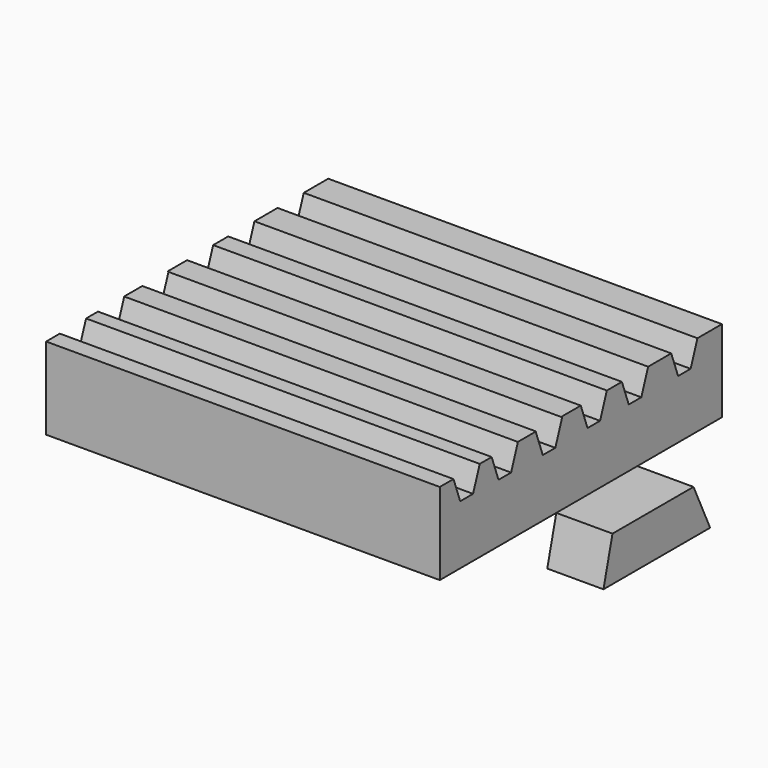
from build123d import *

# Parameters (mm, degrees)
F0_W     = 430
F0_H     = 430
F1_DEPTH = 100
F3_DEPTH = 430.001
F5_DEPTH = 25
F6_DEPTH = 25
F7_DEPTH = 39.3531173468
F9_DEPTH = 68.528033793


with BuildPart() as f1:
    # F0 (on Top) → F1 (new body)
    with BuildSketch(Plane.XY):
        with Locations((-3.4830234945, 52.508988921)):
            Rectangle(F0_W, F0_H)
    extrude(amount=F1_DEPTH)

    # F2 (on face) → F3 (cut, through all)
    with BuildSketch(Plane.YZ.offset(211.5169765055)):
        Polygon((-140.8071517944, 108.7719500065), (-141.579374671, 100), (-131.3882081115, 72), (-111.7705412304, 72), (-101.579374671, 100), (-120.4716265202, 111.3460659981), align=None)
        Polygon((-53.8106647075, 71.2742882862), (-43.3884207408, 99.9091682449), (-62.2806725899, 111.255234243), (-82.6161978642, 108.6811182514), (-83.3884207408, 99.9091682449), (-72.966176774, 71.2742882862), align=None)
        Polygon((13.6244201346, 70.3853269189), (24.0466641014, 99.0202068776), (5.1544122522, 110.3662728757), (-15.1811130221, 107.7921568841), (-15.9533358986, 99.0202068776), (-5.5310919319, 70.3853269189), align=None)
        Polygon((81.838506019, 71.6723867774), (92.2607499858, 100.307266736), (73.3684981366, 111.6533327341), (53.0329728623, 109.0792167425), (52.2607499858, 100.307266736), (62.6829939525, 71.6723867774), align=None)
        Polygon((144.6469358414, 71.414971546), (155.0691798081, 100.0498515047), (136.1769279589, 111.3959175028), (115.8414026846, 108.8218015112), (115.0691798081, 100.0498515047), (125.4914237748, 71.414971546), align=None)
        Polygon((219.8111479881, 71.4149692177), (230.2333919549, 100.0498491764), (211.3411401057, 111.3959151745), (191.0056148314, 108.8217991829), (190.2333919549, 100.0498491764), (200.6556359216, 71.4149692177), align=None)
    extrude(amount=-F3_DEPTH, mode=Mode.SUBTRACT)

    # F5 (add): a face of the model
    f5_faces = [f1.faces().sort_by_distance(p)[0] for p in [
        (-218.4830234945, 54.284043672, 44.9792254446),
    ]]
    extrude(f5_faces, amount=F5_DEPTH)

    # F6 (add): a face of the model
    f6_faces = [f1.faces().sort_by_distance(p)[0] for p in [
        (-243.4830234945, 54.284043672, 44.9792254446),
    ]]
    extrude(f6_faces, amount=F6_DEPTH)

    # F7 (cut): a face of the model
    f7_faces = [f1.faces().sort_by_distance(p)[0] for p in [
        (-268.4830234945, 54.284043672, 44.9792254446),
    ]]
    extrude(f7_faces, amount=F7_DEPTH, mode=Mode.SUBTRACT)


with BuildPart() as f9:
    # F8 (on face) → F9 (new body)
    with BuildSketch(Plane.YZ.offset(211.5169765055)):
        Polygon((15.0914195739, 0), (1.3082925091, -54.1821345687), (163.8840287924, -54.1821345687), (138.5330332329, 0), align=None)
    extrude(amount=F9_DEPTH)


solid = Compound([f1.part, f9.part])
